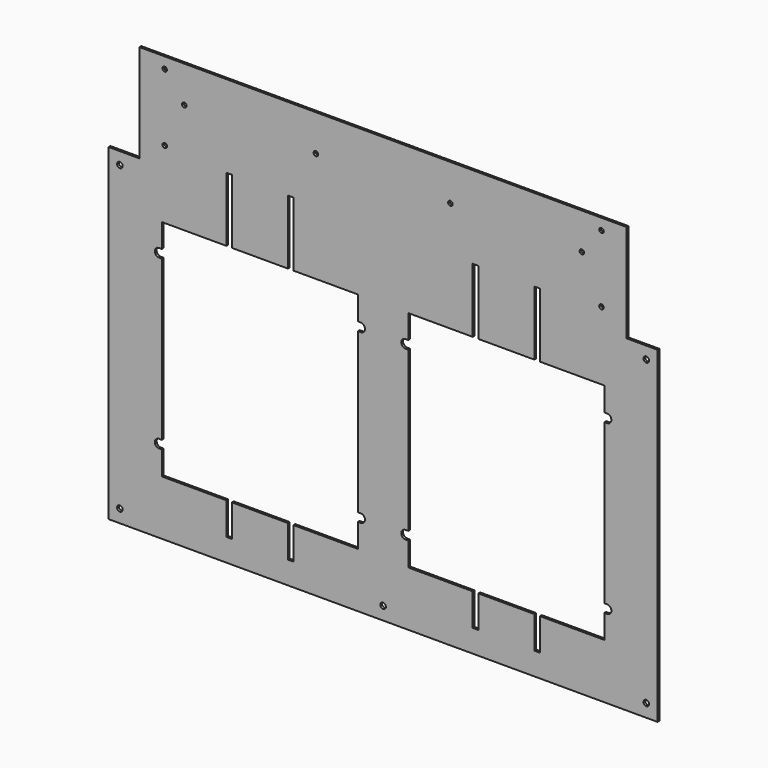
from build123d import *

# Parameters (mm, degrees)
F0_W     = 622.3
F0_H     = 482.6
F0_R     = 3.175
F0_R_2   = 2.579688
F1_DEPTH = 1.27
F2_W     = 34.925
F2_H     = 111.125
F2_W_2   = 6.35
F2_H_2   = 73.025
F2_H_3   = 36.5125
F2_R     = 2.579688
F3_DEPTH = 2.541


with BuildPart() as f1:
    # F0 (on Front) → F1 (new body, symmetric)
    with BuildSketch(Plane.XZ):
        with Locations((-311.15, 241.3)):
            Rectangle(F0_W, F0_H)
        with Locations((-609.6, 14.732)):
            Circle(F0_R, mode=Mode.SUBTRACT)
        with BuildLine():
            Line((-561.975, 289.306), (-561.975, 316.23))
            Line((-561.975, 316.23), (-339.725, 316.23))
            Line((-339.725, 316.23), (-339.725, 289.306))
            Line((-339.725, 289.306), (-336.55, 289.306))
            ThreePointArc((-336.55, 289.306), (-331.724, 284.48), (-336.55, 279.654))
            Line((-336.55, 279.654), (-339.725, 279.654))
            Line((-339.725, 279.654), (-339.725, 98.806))
            Line((-339.725, 98.806), (-336.55, 98.806))
            ThreePointArc((-336.55, 98.806), (-331.724, 93.98), (-336.55, 89.154))
            Line((-336.55, 89.154), (-339.725, 89.154))
            Line((-339.725, 89.154), (-339.725, 62.23))
            Line((-339.725, 62.23), (-561.975, 62.23))
            Line((-561.975, 62.23), (-561.975, 89.154))
            Line((-561.975, 89.154), (-565.15, 89.154))
            ThreePointArc((-565.15, 89.154), (-569.976, 93.98), (-565.15, 98.806))
            Line((-565.15, 98.806), (-561.975, 98.806))
            Line((-561.975, 98.806), (-561.975, 279.654))
            Line((-561.975, 279.654), (-565.15, 279.654))
            ThreePointArc((-565.15, 279.654), (-569.976, 284.48), (-565.15, 289.306))
            Line((-565.15, 289.306), (-561.975, 289.306))
        make_face(mode=Mode.SUBTRACT)
        with Locations((-311.15, 14.732)):
            Circle(F0_R, mode=Mode.SUBTRACT)
        with Locations((-12.7, 14.732)):
            Circle(F0_R, mode=Mode.SUBTRACT)
        with BuildLine():
            Line((-282.575, 62.23), (-282.575, 89.154))
            Line((-282.575, 89.154), (-285.75, 89.154))
            ThreePointArc((-285.75, 89.154), (-290.576, 93.98), (-285.75, 98.806))
            Line((-285.75, 98.806), (-282.575, 98.806))
            Line((-282.575, 98.806), (-282.575, 279.654))
            Line((-282.575, 279.654), (-285.75, 279.654))
            ThreePointArc((-285.75, 279.654), (-290.576, 284.48), (-285.75, 289.306))
            Line((-285.75, 289.306), (-282.575, 289.306))
            Line((-282.575, 289.306), (-282.575, 316.23))
            Line((-282.575, 316.23), (-60.325, 316.23))
            Line((-60.325, 316.23), (-60.325, 289.306))
            Line((-60.325, 289.306), (-57.15, 289.306))
            ThreePointArc((-57.15, 289.306), (-52.324, 284.48), (-57.15, 279.654))
            Line((-57.15, 279.654), (-60.325, 279.654))
            Line((-60.325, 279.654), (-60.325, 98.806))
            Line((-60.325, 98.806), (-57.15, 98.806))
            ThreePointArc((-57.15, 98.806), (-52.324, 93.98), (-57.15, 89.154))
            Line((-57.15, 89.154), (-60.325, 89.154))
            Line((-60.325, 89.154), (-60.325, 62.23))
            Line((-60.325, 62.23), (-282.575, 62.23))
        make_face(mode=Mode.SUBTRACT)
        with Locations((-609.6, 357.632)):
            Circle(F0_R, mode=Mode.SUBTRACT)
        with Locations((-558.8, 393.7)):
            Circle(F0_R_2, mode=Mode.SUBTRACT)
        with Locations((-558.8, 469.9)):
            Circle(F0_R_2, mode=Mode.SUBTRACT)
        with Locations((-12.7, 357.632)):
            Circle(F0_R, mode=Mode.SUBTRACT)
        with Locations((-63.5, 393.7)):
            Circle(F0_R_2, mode=Mode.SUBTRACT)
        with Locations((-63.5, 469.9)):
            Circle(F0_R_2, mode=Mode.SUBTRACT)
    extrude(amount=F1_DEPTH, both=True)

    # F2 (on face) → F3 (cut, through all)
    with BuildSketch(Plane.XZ.offset(1.27)):
        with Locations((-604.8375, 427.0375)):
            Rectangle(F2_W, F2_H)
        with Locations((-17.4625, 427.0375)):
            Rectangle(F2_W, F2_H)
        with Locations((-485.775, 352.7425)):
            Rectangle(F2_W_2, F2_H_2)
        with Locations((-415.925, 352.7425)):
            Rectangle(F2_W_2, F2_H_2)
        with Locations((-415.925, 43.97375)):
            Rectangle(F2_W_2, F2_H_3)
        with Locations((-485.775, 43.97375)):
            Rectangle(F2_W_2, F2_H_3)
        with Locations((-206.375, 352.7425)):
            Rectangle(F2_W_2, F2_H_2)
        with Locations((-136.525, 43.97375)):
            Rectangle(F2_W_2, F2_H_3)
        with Locations((-136.525, 352.7425)):
            Rectangle(F2_W_2, F2_H_2)
        with Locations((-206.375, 43.97375)):
            Rectangle(F2_W_2, F2_H_3)
        with Locations((-85.725, 441.325)):
            Circle(F2_R)
        with Locations((-536.575, 441.325)):
            Circle(F2_R)
        with Locations((-234.95, 441.325)):
            Circle(F2_R)
        with Locations((-387.35, 441.325)):
            Circle(F2_R)
    extrude(amount=-F3_DEPTH, mode=Mode.SUBTRACT)


solid = f1.part
